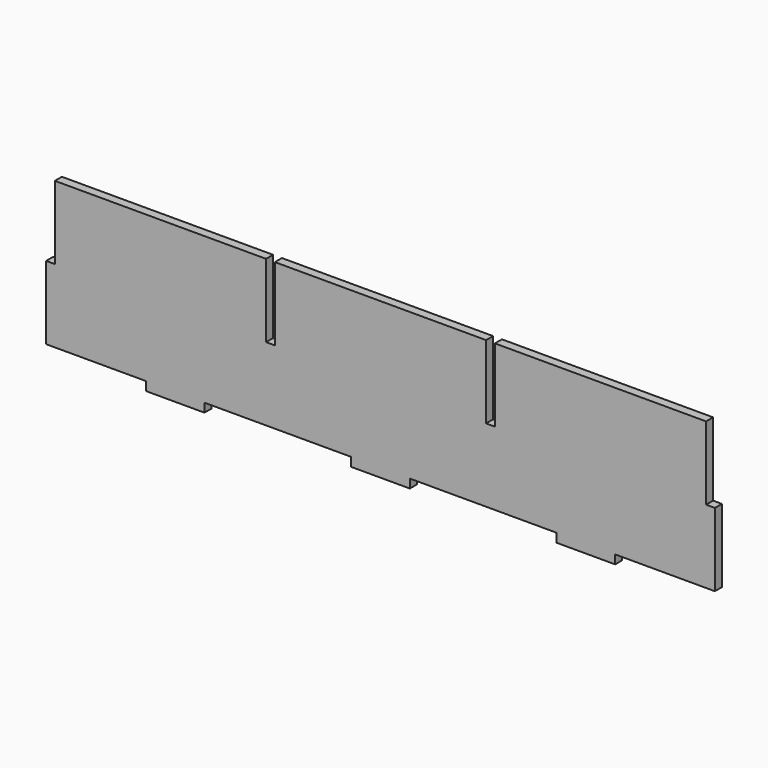
from build123d import *

# Parameters (mm, degrees)
F1_DEPTH = 3


with BuildPart() as f1:
    # F0 (on Front) → F1 (new body)
    with BuildSketch(Plane.XZ):
        Polygon((80, -25), (114, -25), (114, 0), (111, 0), (111, 25), (39, 25), (39, 0), (36, 0), (36, 25), (-36, 25), (-36, 0), (-39, 0), (-39, 25), (-111, 25), (-111, 0), (-114, 0), (-114, -25), (-80, -25), (-80, -28), (-60, -28), (-60, -25), (-10, -25), (-10, -28), (10, -28), (10, -25), (60, -25), (60, -28), (80, -28), align=None)
    extrude(amount=F1_DEPTH)


solid = f1.part
